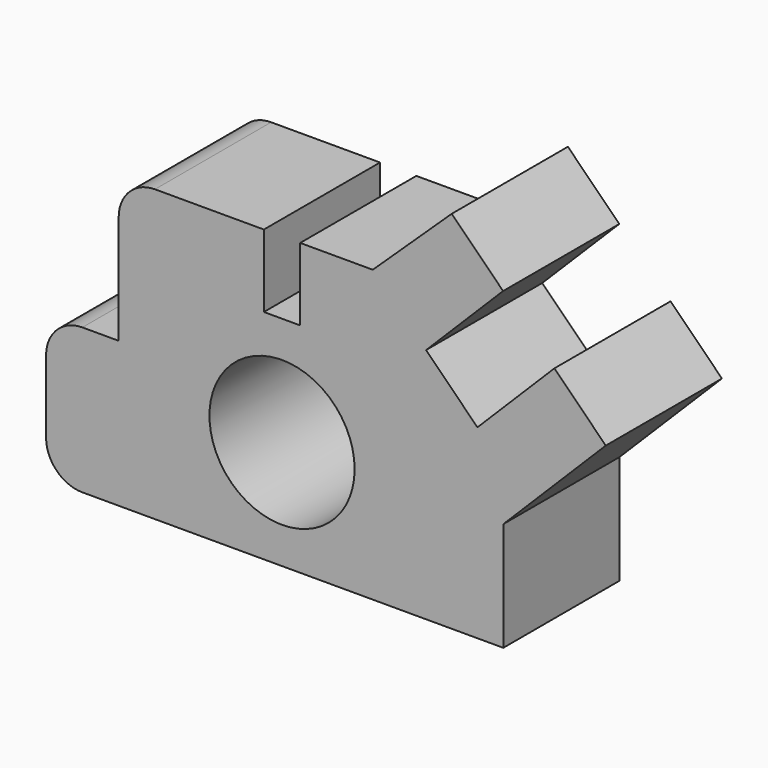
from build123d import *

# Parameters (mm, degrees)
F0_R     = 254
F1_DEPTH = 508


with BuildPart() as f1:
    # F0 (on Front) → F1 (new body)
    with BuildSketch(Plane.XZ):
        with BuildLine():
            Line((-1472.643292, 0), (0, 0))
            Line((0, 0), (0, 381))
            Line((0, 381), (358.494919, 739.494919))
            Line((358.494919, 739.494919), (178.889796, 919.100041))
            Line((178.889796, 919.100041), (-90.517887, 649.692358))
            Line((-90.517887, 649.692358), (-270.12301, 829.29748))
            Line((-270.12301, 829.29748), (-0.715326, 1098.705164))
            Line((-0.715326, 1098.705164), (-180.320448, 1278.310286))
            Line((-180.320448, 1278.310286), (-456.643292, 1016))
            Line((-456.643292, 1016), (-710.643292, 1016))
            Line((-710.643292, 1016), (-710.643292, 762))
            Line((-710.643292, 762), (-837.643292, 762))
            Line((-837.643292, 762), (-837.643292, 1016))
            Line((-837.643292, 1016), (-1218.643292, 1016))
            ThreePointArc((-1218.643292, 1016), (-1308.445853, 978.802561), (-1345.643292, 889))
            Line((-1345.643292, 889), (-1345.643292, 508))
            Line((-1345.643292, 508), (-1472.643292, 508))
            ThreePointArc((-1472.643292, 508), (-1562.445853, 470.802561), (-1599.643292, 381))
            Line((-1599.643292, 381), (-1599.643292, 127))
            ThreePointArc((-1599.643292, 127), (-1562.445853, 37.197439), (-1472.643292, 0))
        make_face()
        with Locations((-774.143292, 381)):
            Circle(F0_R, mode=Mode.SUBTRACT)
    extrude(amount=F1_DEPTH)


solid = f1.part
